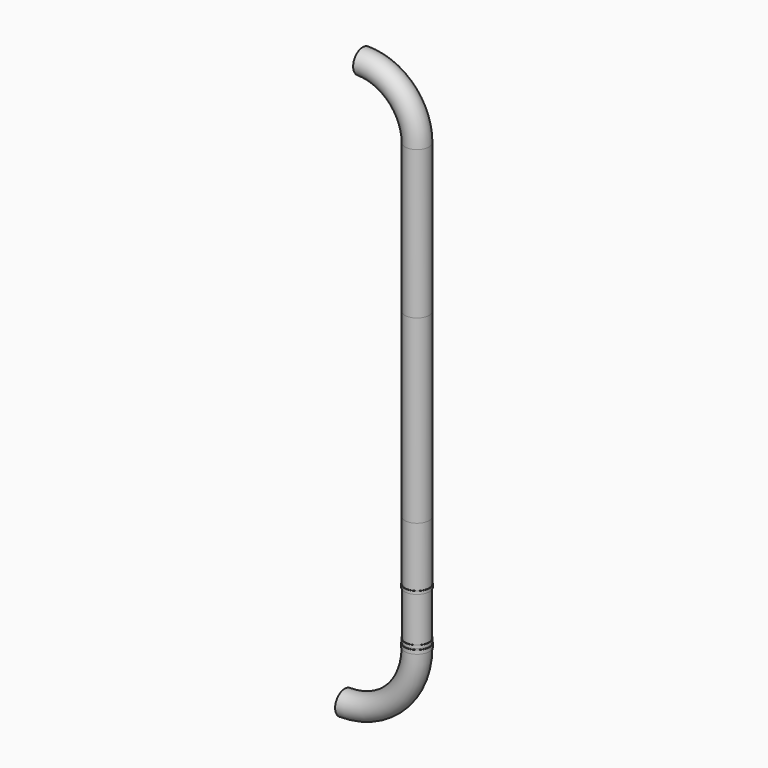
from build123d import *

# Parameters (mm, degrees)
F4_R      = 101.6
F4_R_2    = 98.425
F5_ANGLE  = 90
F2_R      = 104.775
F2_R_2    = 101.6
F7_DEPTH  = 31.75
F8_R      = 104.775
F8_R_2    = 101.6
F9_DEPTH  = 25.4
F10_R     = 100.0125
F10_R_2   = 96.8375
F11_DEPTH = 469.138
F13_R     = 103.1875
F13_R_2   = 100.0125
F14_DEPTH = 25.4
F15_R     = 101.6
F15_R_2   = 98.425
F16_DEPTH = 527.05
F18_R     = 101.6
F18_R_2   = 98.425
F19_DEPTH = 1524
F22_R     = 101.6
F22_R_2   = 98.425
F23_ANGLE = 90
F20_R     = 101.6
F20_R_2   = 98.425
F24_DEPTH = 1250.95


with BuildPart() as f5:
    # F4 (on line) → F5 (revolve)
    with BuildSketch(Plane.XY.offset(-2495.55)):
        Circle(F4_R)
        Circle(F4_R_2, mode=Mode.SUBTRACT)
    revolve(axis=Axis((-609.5997691154, -101.6, -2495.55), (0, 1, 0)), revolution_arc=F5_ANGLE)


with BuildPart() as f7:
    # F2 (on line) → F7 (new body)
    with BuildSketch(Plane.XY.offset(-2463.8)):
        Circle(F2_R)
        Circle(F2_R_2, mode=Mode.SUBTRACT)
    extrude(amount=-F7_DEPTH)


with BuildPart() as f9:
    # F8 (on line) → F9 (new body)
    with BuildSketch(Plane.XY.offset(-2051.05)):
        Circle(F8_R)
        Circle(F8_R_2, mode=Mode.SUBTRACT)
    extrude(amount=F9_DEPTH)


with BuildPart() as f11:
    # F10 (on line) → F11 (new body)
    with BuildSketch(Plane.XY.offset(-2495.55)):
        Circle(F10_R)
        Circle(F10_R_2, mode=Mode.SUBTRACT)
    extrude(amount=F11_DEPTH)


with BuildPart() as f14:
    # F13 (on line) → F14 (new body)
    with BuildSketch(Plane.XY.offset(-2454.275)):
        Circle(F13_R)
        Circle(F13_R_2, mode=Mode.SUBTRACT)
    extrude(amount=F14_DEPTH)


with BuildPart() as f16:
    # F15 (on line) → F16 (new body)
    with BuildSketch(Plane.XY.offset(-2051.05)):
        Circle(F15_R)
        Circle(F15_R_2, mode=Mode.SUBTRACT)
    extrude(amount=F16_DEPTH)


with BuildPart() as f19:
    # F18 (on line) → F19 (new body)
    with BuildSketch(Plane.XY.offset(-1524)):
        Circle(F18_R)
        Circle(F18_R_2, mode=Mode.SUBTRACT)
    extrude(amount=F19_DEPTH)


with BuildPart() as f23:
    # F22 (on line) → F23 (revolve)
    with BuildSketch(Plane.XY.offset(1250.95)):
        Circle(F22_R)
        Circle(F22_R_2, mode=Mode.SUBTRACT)
    revolve(axis=Axis((-457.6722681522, -101.6, 1250.95), (0, -1, 0)), revolution_arc=F23_ANGLE)

    # F20 (on Top) → F24 (join)
    with BuildSketch(Plane.XY):
        Circle(F20_R)
        Circle(F20_R_2, mode=Mode.SUBTRACT)
    extrude(amount=F24_DEPTH)


solid = Compound([f5.part, f7.part, f9.part, f11.part, f14.part, f16.part, f19.part, f23.part])
